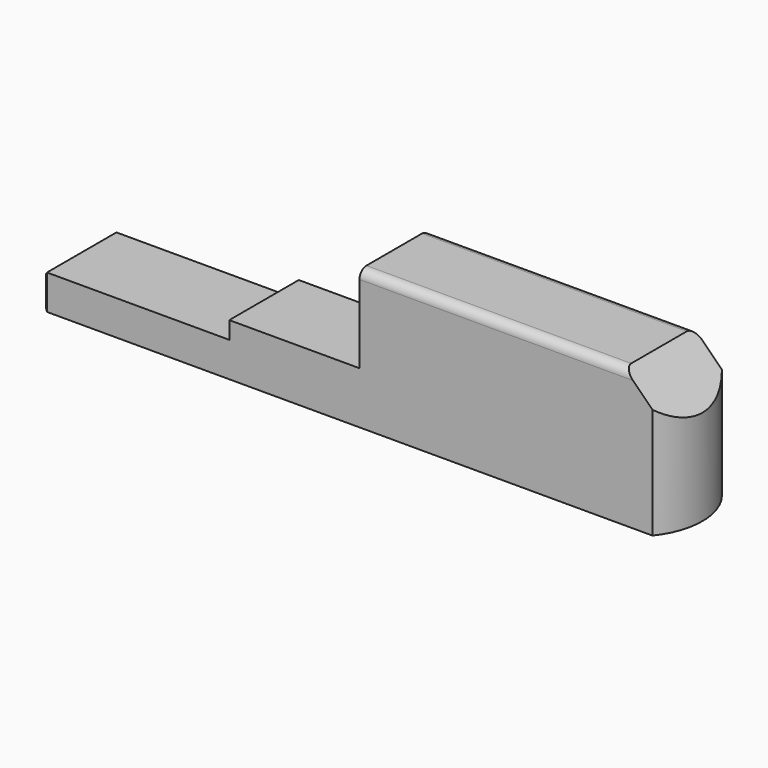
from build123d import *

# Parameters (mm, degrees)
F0_W      = 72
F0_H      = 10
F1_DEPTH  = 16
F3_DEPTH  = 25
F5_D      = 6
F5_DEPTH  = 10
F5_TIP    = 1.8025818571
F6_SIZE   = 0.5
F7_SIZE   = 5
F8_R      = 1
F10_DEPTH = 20


with BuildPart() as f1:
    # F0 (on Top) → F1 (new body)
    with BuildSketch(Plane.XY):
        Rectangle(F0_W, F0_H)
    extrude(amount=F1_DEPTH)

    # F2 (on face) → F3 (cut)
    with BuildSketch(Plane.XZ.offset(5)):
        Polygon((-36, 16), (-36, 4), (-14.5, 4), (-14.5, 6), (0.5, 6), (0.5, 16), align=None)
    extrude(amount=-F3_DEPTH, mode=Mode.SUBTRACT)

    # F5
    with Locations(Plane(origin=(0.5, 0, 0), x_dir=(0, -1, 0), z_dir=(-1, 0, 0))):
        with Locations((0, 11)):
            Hole(F5_D / 2, depth=F5_DEPTH)
            with Locations((0, 0, -(F5_DEPTH + F5_TIP / 2))):  # 118° drill point
                Cone(0, F5_D / 2, F5_TIP, mode=Mode.SUBTRACT)

    # F6
    f6_edges = [f1.edges().sort_by_distance(p)[0] for p in [
        (-36, 0, 4),
        (-36, -5, 2),
        (-36, 5, 2),
    ]]
    chamfer(f6_edges, length=F6_SIZE)

    # F7
    f7_edges = [f1.edges().sort_by_distance(p)[0] for p in [
        (36, 0, 16),
    ]]
    chamfer(f7_edges, length=F7_SIZE)

    # F8
    f8_edges = [f1.edges().sort_by_distance(p)[0] for p in [
        (15.75, -5, 16),
        (15.75, 5, 16),
    ]]
    fillet(f8_edges, radius=F8_R)

    # F9 (on Top) → F10 (cut)
    with BuildSketch(Plane.XY):
        with BuildLine():
            ThreePointArc((34.2449979984, 5), (36, 0), (34.2449979984, -5))
            Line((34.2449979984, -5), (37.1483493294, -5))
            Line((37.1483493294, -5), (37.1483493294, 5))
            Line((37.1483493294, 5), (34.2449979984, 5))
        make_face()
    extrude(amount=F10_DEPTH, mode=Mode.SUBTRACT)


solid = f1.part
